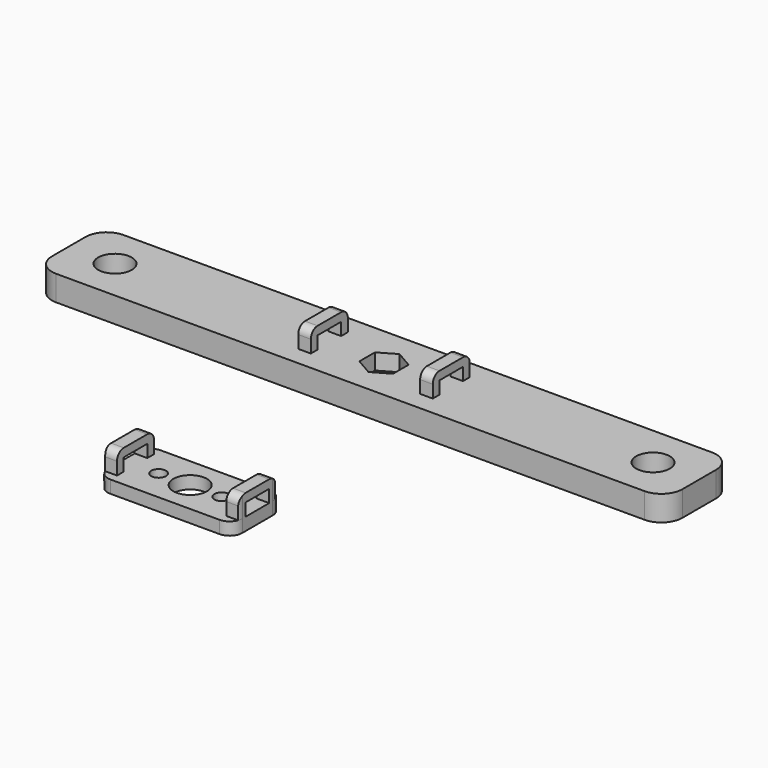
from build123d import *

# Parameters (mm, degrees)
F0_R      = 4
F0_R_2    = 3.25
F1_DEPTH  = 6
F2_R      = 3.25
F3_DEPTH  = 3.8
F2_W      = 3
F2_H      = 11
F4_DEPTH  = 5
F5_R      = 2
F6_W      = 7
F6_H      = 3
F7_DEPTH  = 35
F8_R      = 1.75
F8_R_2    = 4
F9_DEPTH  = 3
F11_DEPTH = 5
F12_W     = 7
F12_H     = 3
F13_DEPTH = 35
F14_R     = 2


with BuildPart() as f1:
    # F0 (on Top) → F1 (new body)
    with BuildSketch(Plane.XY):
        with BuildLine():
            Line((35.652044, 25.784345), (-104.347956, 25.784345))
            ThreePointArc((-104.347956, 25.784345), (-107.88349, 24.319879), (-109.347956, 20.784345))
            Line((-109.347956, 20.784345), (-109.347956, 10.784345))
            ThreePointArc((-109.347956, 10.784345), (-107.88349, 7.248811), (-104.347956, 5.784345))
            Line((-104.347956, 5.784345), (35.652044, 5.784345))
            ThreePointArc((35.652044, 5.784345), (39.187578, 7.248811), (40.652044, 10.784345))
            Line((40.652044, 10.784345), (40.652044, 20.784345))
            ThreePointArc((40.652044, 20.784345), (39.187578, 24.319879), (35.652044, 25.784345))
        make_face()
        with Locations((-98.347956, 15.784345)):
            Circle(F0_R, mode=Mode.SUBTRACT)
        with Locations((-34.347956, 15.784345)):
            Circle(F0_R_2, mode=Mode.SUBTRACT)
        with Locations((29.652044, 15.784345)):
            Circle(F0_R, mode=Mode.SUBTRACT)
    extrude(amount=F1_DEPTH)

    # F2 (on face) → F3 (cut)
    with BuildSketch(Plane.XY.offset(6)):
        Polygon((-30.347956, 13.474944), (-30.347956, 18.093746), (-34.347956, 20.403147), (-38.347956, 18.093746), (-38.347956, 13.474944), (-34.347956, 11.165543), align=None)
        with Locations((-34.347956, 15.784345)):
            Circle(F2_R, mode=Mode.SUBTRACT)
    extrude(amount=-F3_DEPTH, mode=Mode.SUBTRACT)

    # F2 (on face) → F4 (join)
    with BuildSketch(Plane.XY.offset(6)):
        with Locations((-19.847956, 15.784345)):
            Rectangle(F2_W, F2_H)
        with Locations((-48.847956, 15.784345)):
            Rectangle(F2_W, F2_H)
    extrude(amount=F4_DEPTH)

    # F5
    f5_edges = [f1.edges().sort_by_distance(p)[0] for p in [
        (-19.847956, 21.284345, 11),
        (-19.847956, 10.284345, 11),
        (-48.847956, 21.284345, 11),
        (-48.847956, 10.284345, 11),
    ]]
    fillet(f5_edges, radius=F5_R)

    # F6 (on face) → F7 (cut)
    with BuildSketch(Plane.YZ.offset(-18.347956)):
        with Locations((15.784345, 7.5)):
            Rectangle(F6_W, F6_H)
    extrude(amount=-F7_DEPTH, mode=Mode.SUBTRACT)


with BuildPart() as f9:
    # F8 (on Top) → F9 (new body)
    with BuildSketch(Plane.XY):
        with BuildLine():
            Line((-22.402144, -33.044718), (-48.402144, -33.044718))
            ThreePointArc((-48.402144, -33.044718), (-50.523464, -33.923398), (-51.402144, -36.044718))
            Line((-51.402144, -36.044718), (-51.402144, -45.044718))
            ThreePointArc((-51.402144, -45.044718), (-50.523464, -47.166039), (-48.402144, -48.044718))
            Line((-48.402144, -48.044718), (-22.402144, -48.044718))
            ThreePointArc((-22.402144, -48.044718), (-20.280824, -47.166039), (-19.402144, -45.044718))
            Line((-19.402144, -45.044718), (-19.402144, -36.044718))
            ThreePointArc((-19.402144, -36.044718), (-20.280824, -33.923398), (-22.402144, -33.044718))
        make_face()
        with Locations((-42.902144, -40.544718)):
            Circle(F8_R, mode=Mode.SUBTRACT)
        with Locations((-35.402144, -40.544718)):
            Circle(F8_R_2, mode=Mode.SUBTRACT)
        with Locations((-27.902144, -40.544718)):
            Circle(F8_R, mode=Mode.SUBTRACT)
    extrude(amount=F9_DEPTH)

    # F10 (on face) → F11 (join)
    with BuildSketch(Plane.XY.offset(3)):
        with BuildLine():
            ThreePointArc((-19.402144, -36.044718), (-19.445348, -35.537413), (-19.573717, -35.044718))
            Line((-19.573717, -35.044718), (-22.402144, -35.044718))
            Line((-22.402144, -35.044718), (-22.402144, -46.044718))
            Line((-22.402144, -46.044718), (-19.573717, -46.044718))
            ThreePointArc((-19.573717, -46.044718), (-19.445348, -45.552024), (-19.402144, -45.044718))
            Line((-19.402144, -45.044718), (-19.402144, -36.044718))
        make_face()
        with BuildLine():
            Line((-48.402144, -35.044718), (-51.230571, -35.044718))
            ThreePointArc((-51.230571, -35.044718), (-51.35894, -35.537413), (-51.402144, -36.044718))
            Line((-51.402144, -36.044718), (-51.402144, -45.044718))
            ThreePointArc((-51.402144, -45.044718), (-51.35894, -45.552024), (-51.230571, -46.044718))
            Line((-51.230571, -46.044718), (-48.402144, -46.044718))
            Line((-48.402144, -46.044718), (-48.402144, -35.044718))
        make_face()
    extrude(amount=F11_DEPTH)

    # F12 (on face) → F13 (cut)
    with BuildSketch(Plane.YZ.offset(-19.402144)):
        with Locations((-40.544718, 4.5)):
            Rectangle(F12_W, F12_H)
    extrude(amount=-F13_DEPTH, mode=Mode.SUBTRACT)

    # F14
    f14_edges = [f9.edges().sort_by_distance(p)[0] for p in [
        (-20.987931, -46.044718, 8),
        (-49.816358, -46.044718, 8),
        (-49.816358, -35.044718, 8),
        (-20.987931, -35.044718, 8),
    ]]
    fillet(f14_edges, radius=F14_R)


solid = Compound([f1.part, f9.part])
